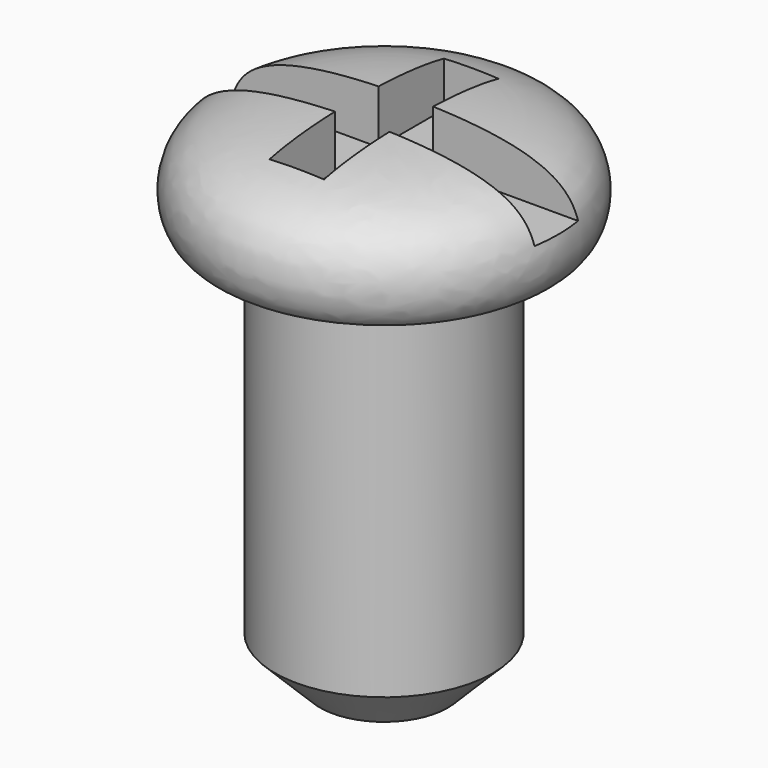
from build123d import *

# Parameters (mm, degrees)
POCKET_DEPTH = 5


with BuildPart() as part:
    # Sketch → Revolution (revolve)
    with BuildSketch(Plane.XZ):
        with BuildLine():
            add(Edge.make_bspline(
                [(0, 2), (2.227338, 1.983256), (3.586166, 1.297371), (3.17254, 0), (2.834081, 0)],
                knots=[0, 0, 0, 0, 0.5, 1, 1, 1, 1], degree=3))
            Line((2.834081, 0), (2, 0))
            Line((2, 0), (2, -6.471573))
            Line((2, -6.471573), (1.171573, -7.3))
            Line((1.171573, -7.3), (0, -7.3))
            Line((0, -7.3), (0, 2))
        make_face()
    revolve(axis=Axis((0, 0, 0), (0, 0, 1)))

    # Sketch001 → Pocket (cut)
    with BuildSketch(Plane.XY.offset(1)):
        Polygon((-3.5, 0.5), (-0.5, 0.5), (-0.5, 2), (0.5, 2), (0.5, 0.5), (3.5, 0.5), (3.5, -0.5), (0.5, -0.5), (0.5, -2), (-0.5, -2), (-0.5, -0.5), (-3.5, -0.5), align=None)
    extrude(amount=POCKET_DEPTH, mode=Mode.SUBTRACT)


solid = part.part
